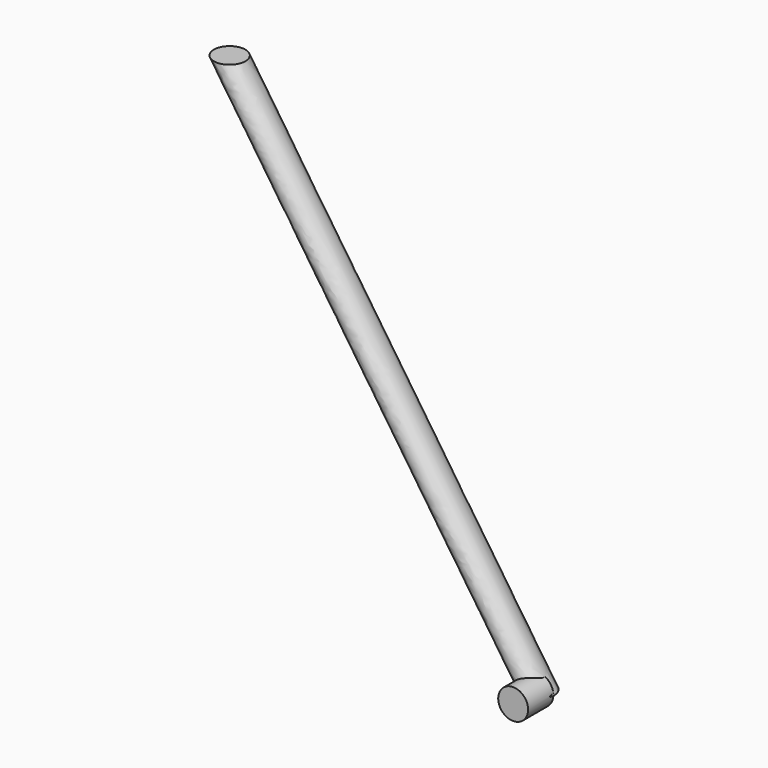
from build123d import *

# Parameters (mm, degrees)
F1_R     = 25.4
F3_R     = 24.0792
F4_DEPTH = 50.8


with BuildPart() as f2:
    # F2: sweep along a path in F0
    with BuildLine(Plane.XZ) as f2_path:
        Line((0, 0), (-497.122491, 737.014402))
    # F1 (on Top) → F2 (sweep)
    with BuildSketch(Plane.XY):
        Circle(F1_R)
    sweep(path=f2_path.line)

    # F3 (on Front) → F4 (join)
    with BuildSketch(Plane.XZ):
        Circle(F3_R)
    extrude(amount=F4_DEPTH)


solid = f2.part
